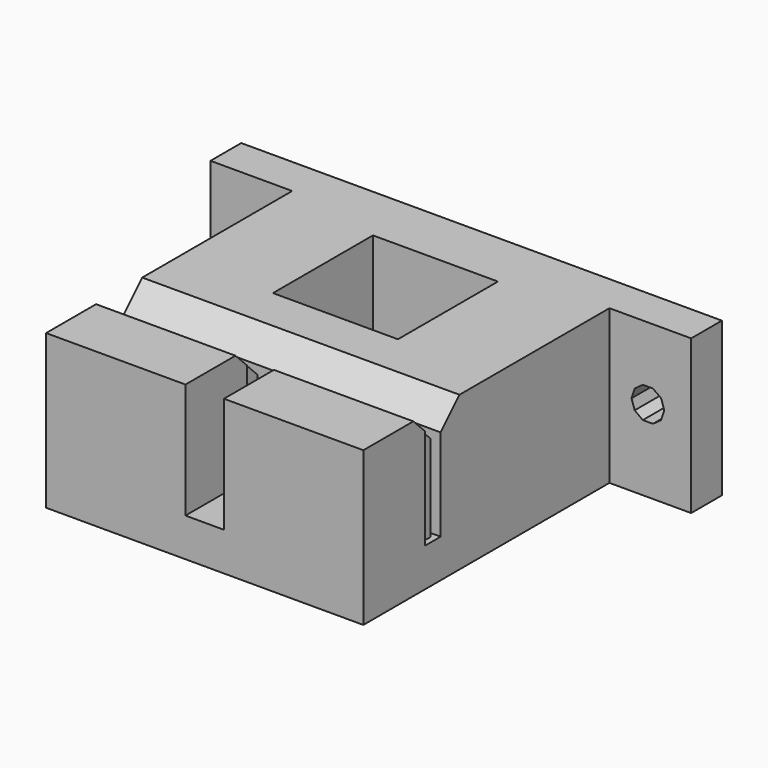
from build123d import *

# Parameters (mm, degrees)
PRISM001_DEPTH          = 50
PRISM_DEPTH             = 50
CUBE004_W               = 67
CUBE004_H               = 15
CUBE004_DEPTH           = 15
CUBE004_PLACEMENT_ANGLE = 45
CUBE006_W               = 1
CUBE006_H               = 1.7
CUBE006_DEPTH           = 15
CUBE007_W               = 1
CUBE007_H               = 1.7
CUBE007_DEPTH           = 15
CUBE008_W               = 1
CUBE008_H               = 1.7
CUBE008_DEPTH           = 15
CUBE009_W               = 1
CUBE009_H               = 1.7
CUBE009_DEPTH           = 15
CUBE010_W               = 1
CUBE010_H               = 1.7
CUBE010_DEPTH           = 15
CUBE011_W               = 1
CUBE011_H               = 1.7
CUBE011_DEPTH           = 15
CUBE012_W               = 1
CUBE012_H               = 1.7
CUBE012_DEPTH           = 15
CUBE013_W               = 1
CUBE013_H               = 1.7
CUBE013_DEPTH           = 15
CUBE014_W               = 1
CUBE014_H               = 1.7
CUBE014_DEPTH           = 15
CUBE015_W               = 1
CUBE015_H               = 1.7
CUBE015_DEPTH           = 15
CUBE016_W               = 1
CUBE016_H               = 1.7
CUBE016_DEPTH           = 15
CUBE017_W               = 1
CUBE017_H               = 1.7
CUBE017_DEPTH           = 15
CUBE018_W               = 1
CUBE018_H               = 1.7
CUBE018_DEPTH           = 15
CUBE019_W               = 1
CUBE019_H               = 1.7
CUBE019_DEPTH           = 15
CUBE020_W               = 1
CUBE020_H               = 1.7
CUBE020_DEPTH           = 15
CUBE021_W               = 1
CUBE021_H               = 1.7
CUBE021_DEPTH           = 15
CUBE022_W               = 1
CUBE022_H               = 1.7
CUBE022_DEPTH           = 15
CUBE023_W               = 1
CUBE023_H               = 1.7
CUBE023_DEPTH           = 15
CUBE024_W               = 1
CUBE024_H               = 1.7
CUBE024_DEPTH           = 15
CUBE025_W               = 1
CUBE025_H               = 1.7
CUBE025_DEPTH           = 15
CUBE026_W               = 1
CUBE026_H               = 1.7
CUBE026_DEPTH           = 15
CUBE027_W               = 1
CUBE027_H               = 1.7
CUBE027_DEPTH           = 15
CUBE028_W               = 1
CUBE028_H               = 1.7
CUBE028_DEPTH           = 15
CUBE005_W               = 1
CUBE005_H               = 1.7
CUBE005_DEPTH           = 15
CUBE029_W               = 4
CUBE029_H               = 11
CUBE029_DEPTH           = 15
CUBE030_W               = 13
CUBE030_H               = 13
CUBE030_DEPTH           = 20
CUBE003_W               = 67
CUBE003_H               = 0.55
CUBE003_DEPTH           = 15
CUBE001_W               = 33
CUBE001_H               = 25
CUBE001_DEPTH           = 16
CUBE002_W               = 50
CUBE002_H               = 4
CUBE002_DEPTH           = 16
CUBE_W                  = 33
CUBE_H                  = 15
CUBE_DEPTH              = 16


with BuildPart() as prism001:
    # prism001 → prism001 (new body)
    with BuildSketch(Plane(origin=(-45.5, 0.1, 7.5), x_dir=(1, 0, 0), z_dir=(0, 1, 0))):
        Polygon((1.7, 0), (1.375329, 0.999235), (0.525329, 1.616796), (-0.525329, 1.616796), (-1.375329, 0.999235), (-1.7, 0), (-1.375329, -0.999235), (-0.525329, -1.616796), (0.525329, -1.616796), (1.375329, -0.999235), align=None)
    extrude(amount=PRISM001_DEPTH)


with BuildPart() as group003:
    # prism → prism (new body)
    with BuildSketch(Plane(origin=(-4.5, 0.1, 7.5), x_dir=(1, 0, 0), z_dir=(0, 1, 0))):
        Polygon((1.7, 0), (1.375329, 0.999235), (0.525329, 1.616796), (-0.525329, 1.616796), (-1.375329, 0.999235), (-1.7, 0), (-1.375329, -0.999235), (-0.525329, -1.616796), (0.525329, -1.616796), (1.375329, -0.999235), align=None)
    extrude(amount=PRISM_DEPTH)

    # Group003: union prism001
    add(prism001.part)


with BuildPart() as cube004:
    # cube004 → cube004 (new body)
    with BuildSketch(Plane.XY):
        with Locations((33.5, 7.5)):
            Rectangle(CUBE004_W, CUBE004_H)
    extrude(amount=CUBE004_DEPTH)


with BuildPart() as cube004_1:
    # cube004 placement: moved
    add(cube004.part.moved(Location((-66, 9.5, 12))).rotate(Axis((-66, 9.5, 12), (1, 0, 0)), CUBE004_PLACEMENT_ANGLE))


with BuildPart() as cube006:
    # cube006 → cube006 (new body)
    with BuildSketch(Plane(origin=(-3.1, 8, 3), x_dir=(1, 0, 0), z_dir=(0, 0, 1))):
        with Locations((0.5, 0.85)):
            Rectangle(CUBE006_W, CUBE006_H)
    extrude(amount=CUBE006_DEPTH)


with BuildPart() as cube007:
    # cube007 → cube007 (new body)
    with BuildSketch(Plane(origin=(-5.1, 8, 3), x_dir=(1, 0, 0), z_dir=(0, 0, 1))):
        with Locations((0.5, 0.85)):
            Rectangle(CUBE007_W, CUBE007_H)
    extrude(amount=CUBE007_DEPTH)


with BuildPart() as cube008:
    # cube008 → cube008 (new body)
    with BuildSketch(Plane(origin=(-7.1, 8, 3), x_dir=(1, 0, 0), z_dir=(0, 0, 1))):
        with Locations((0.5, 0.85)):
            Rectangle(CUBE008_W, CUBE008_H)
    extrude(amount=CUBE008_DEPTH)


with BuildPart() as cube009:
    # cube009 → cube009 (new body)
    with BuildSketch(Plane(origin=(-9.1, 8, 3), x_dir=(1, 0, 0), z_dir=(0, 0, 1))):
        with Locations((0.5, 0.85)):
            Rectangle(CUBE009_W, CUBE009_H)
    extrude(amount=CUBE009_DEPTH)


with BuildPart() as cube010:
    # cube010 → cube010 (new body)
    with BuildSketch(Plane(origin=(-11.1, 8, 3), x_dir=(1, 0, 0), z_dir=(0, 0, 1))):
        with Locations((0.5, 0.85)):
            Rectangle(CUBE010_W, CUBE010_H)
    extrude(amount=CUBE010_DEPTH)


with BuildPart() as cube011:
    # cube011 → cube011 (new body)
    with BuildSketch(Plane(origin=(-13.1, 8, 3), x_dir=(1, 0, 0), z_dir=(0, 0, 1))):
        with Locations((0.5, 0.85)):
            Rectangle(CUBE011_W, CUBE011_H)
    extrude(amount=CUBE011_DEPTH)


with BuildPart() as cube012:
    # cube012 → cube012 (new body)
    with BuildSketch(Plane(origin=(-15.1, 8, 3), x_dir=(1, 0, 0), z_dir=(0, 0, 1))):
        with Locations((0.5, 0.85)):
            Rectangle(CUBE012_W, CUBE012_H)
    extrude(amount=CUBE012_DEPTH)


with BuildPart() as cube013:
    # cube013 → cube013 (new body)
    with BuildSketch(Plane(origin=(-17.1, 8, 3), x_dir=(1, 0, 0), z_dir=(0, 0, 1))):
        with Locations((0.5, 0.85)):
            Rectangle(CUBE013_W, CUBE013_H)
    extrude(amount=CUBE013_DEPTH)


with BuildPart() as cube014:
    # cube014 → cube014 (new body)
    with BuildSketch(Plane(origin=(-19.1, 8, 3), x_dir=(1, 0, 0), z_dir=(0, 0, 1))):
        with Locations((0.5, 0.85)):
            Rectangle(CUBE014_W, CUBE014_H)
    extrude(amount=CUBE014_DEPTH)


with BuildPart() as cube015:
    # cube015 → cube015 (new body)
    with BuildSketch(Plane(origin=(-21.1, 8, 3), x_dir=(1, 0, 0), z_dir=(0, 0, 1))):
        with Locations((0.5, 0.85)):
            Rectangle(CUBE015_W, CUBE015_H)
    extrude(amount=CUBE015_DEPTH)


with BuildPart() as cube016:
    # cube016 → cube016 (new body)
    with BuildSketch(Plane(origin=(-23.1, 8, 3), x_dir=(1, 0, 0), z_dir=(0, 0, 1))):
        with Locations((0.5, 0.85)):
            Rectangle(CUBE016_W, CUBE016_H)
    extrude(amount=CUBE016_DEPTH)


with BuildPart() as cube017:
    # cube017 → cube017 (new body)
    with BuildSketch(Plane(origin=(-25.1, 8, 3), x_dir=(1, 0, 0), z_dir=(0, 0, 1))):
        with Locations((0.5, 0.85)):
            Rectangle(CUBE017_W, CUBE017_H)
    extrude(amount=CUBE017_DEPTH)


with BuildPart() as cube018:
    # cube018 → cube018 (new body)
    with BuildSketch(Plane(origin=(-27.1, 8, 3), x_dir=(1, 0, 0), z_dir=(0, 0, 1))):
        with Locations((0.5, 0.85)):
            Rectangle(CUBE018_W, CUBE018_H)
    extrude(amount=CUBE018_DEPTH)


with BuildPart() as cube019:
    # cube019 → cube019 (new body)
    with BuildSketch(Plane(origin=(-29.1, 8, 3), x_dir=(1, 0, 0), z_dir=(0, 0, 1))):
        with Locations((0.5, 0.85)):
            Rectangle(CUBE019_W, CUBE019_H)
    extrude(amount=CUBE019_DEPTH)


with BuildPart() as cube020:
    # cube020 → cube020 (new body)
    with BuildSketch(Plane(origin=(-31.1, 8, 3), x_dir=(1, 0, 0), z_dir=(0, 0, 1))):
        with Locations((0.5, 0.85)):
            Rectangle(CUBE020_W, CUBE020_H)
    extrude(amount=CUBE020_DEPTH)


with BuildPart() as cube021:
    # cube021 → cube021 (new body)
    with BuildSketch(Plane(origin=(-33.1, 8, 3), x_dir=(1, 0, 0), z_dir=(0, 0, 1))):
        with Locations((0.5, 0.85)):
            Rectangle(CUBE021_W, CUBE021_H)
    extrude(amount=CUBE021_DEPTH)


with BuildPart() as cube022:
    # cube022 → cube022 (new body)
    with BuildSketch(Plane(origin=(-35.1, 8, 3), x_dir=(1, 0, 0), z_dir=(0, 0, 1))):
        with Locations((0.5, 0.85)):
            Rectangle(CUBE022_W, CUBE022_H)
    extrude(amount=CUBE022_DEPTH)


with BuildPart() as cube023:
    # cube023 → cube023 (new body)
    with BuildSketch(Plane(origin=(-37.1, 8, 3), x_dir=(1, 0, 0), z_dir=(0, 0, 1))):
        with Locations((0.5, 0.85)):
            Rectangle(CUBE023_W, CUBE023_H)
    extrude(amount=CUBE023_DEPTH)


with BuildPart() as cube024:
    # cube024 → cube024 (new body)
    with BuildSketch(Plane(origin=(-39.1, 8, 3), x_dir=(1, 0, 0), z_dir=(0, 0, 1))):
        with Locations((0.5, 0.85)):
            Rectangle(CUBE024_W, CUBE024_H)
    extrude(amount=CUBE024_DEPTH)


with BuildPart() as cube025:
    # cube025 → cube025 (new body)
    with BuildSketch(Plane(origin=(-41.1, 8, 3), x_dir=(1, 0, 0), z_dir=(0, 0, 1))):
        with Locations((0.5, 0.85)):
            Rectangle(CUBE025_W, CUBE025_H)
    extrude(amount=CUBE025_DEPTH)


with BuildPart() as cube026:
    # cube026 → cube026 (new body)
    with BuildSketch(Plane(origin=(-43.1, 8, 3), x_dir=(1, 0, 0), z_dir=(0, 0, 1))):
        with Locations((0.5, 0.85)):
            Rectangle(CUBE026_W, CUBE026_H)
    extrude(amount=CUBE026_DEPTH)


with BuildPart() as cube027:
    # cube027 → cube027 (new body)
    with BuildSketch(Plane(origin=(-45.1, 8, 3), x_dir=(1, 0, 0), z_dir=(0, 0, 1))):
        with Locations((0.5, 0.85)):
            Rectangle(CUBE027_W, CUBE027_H)
    extrude(amount=CUBE027_DEPTH)


with BuildPart() as cube028:
    # cube028 → cube028 (new body)
    with BuildSketch(Plane(origin=(-47.1, 8, 3), x_dir=(1, 0, 0), z_dir=(0, 0, 1))):
        with Locations((0.5, 0.85)):
            Rectangle(CUBE028_W, CUBE028_H)
    extrude(amount=CUBE028_DEPTH)


with BuildPart() as group001:
    # cube005 → cube005 (new body)
    with BuildSketch(Plane(origin=(-1.1, 8, 3), x_dir=(1, 0, 0), z_dir=(0, 0, 1))):
        with Locations((0.5, 0.85)):
            Rectangle(CUBE005_W, CUBE005_H)
    extrude(amount=CUBE005_DEPTH)

    # Group001: union cube006, cube007, cube008, cube009, cube010, cube011, cube012, cube013, cube014, cube015, cube016, cube017, cube018, cube019, cube020, cube021, cube022, cube023, cube024, cube025, cube026, cube027, cube028
    add(cube006.part)
    add(cube007.part)
    add(cube008.part)
    add(cube009.part)
    add(cube010.part)
    add(cube011.part)
    add(cube012.part)
    add(cube013.part)
    add(cube014.part)
    add(cube015.part)
    add(cube016.part)
    add(cube017.part)
    add(cube018.part)
    add(cube019.part)
    add(cube020.part)
    add(cube021.part)
    add(cube022.part)
    add(cube023.part)
    add(cube024.part)
    add(cube025.part)
    add(cube026.part)
    add(cube027.part)
    add(cube028.part)


with BuildPart() as cube029:
    # cube029 → cube029 (new body)
    with BuildSketch(Plane(origin=(-27, -1, 3), x_dir=(1, 0, 0), z_dir=(0, 0, 1))):
        with Locations((2, 5.5)):
            Rectangle(CUBE029_W, CUBE029_H)
    extrude(amount=CUBE029_DEPTH)


with BuildPart() as cube030:
    # cube030 → cube030 (new body)
    with BuildSketch(Plane(origin=(-31.5, 17, -2), x_dir=(1, 0, 0), z_dir=(0, 0, 1))):
        with Locations((6.5, 6.5)):
            Rectangle(CUBE030_W, CUBE030_H)
    extrude(amount=CUBE030_DEPTH)


with BuildPart() as union:
    # cube003 → cube003 (new body)
    with BuildSketch(Plane(origin=(-66, 9.5, 3), x_dir=(1, 0, 0), z_dir=(0, 0, 1))):
        with Locations((33.5, 0.275)):
            Rectangle(CUBE003_W, CUBE003_H)
    extrude(amount=CUBE003_DEPTH)

    # Group002: union cube004, Group001, cube029, cube030
    add(cube004_1.part)
    add(group001.part)
    add(cube029.part)
    add(cube030.part)

    # union: union Group003
    add(group003.part)


with BuildPart() as cube001:
    # cube001 → cube001 (new body)
    with BuildSketch(Plane(origin=(-41.5, 11, -1), x_dir=(1, 0, 0), z_dir=(0, 0, 1))):
        with Locations((16.5, 12.5)):
            Rectangle(CUBE001_W, CUBE001_H)
    extrude(amount=CUBE001_DEPTH)


with BuildPart() as cube002:
    # cube002 → cube002 (new body)
    with BuildSketch(Plane(origin=(-50, 32, -1), x_dir=(1, 0, 0), z_dir=(0, 0, 1))):
        with Locations((25, 2)):
            Rectangle(CUBE002_W, CUBE002_H)
    extrude(amount=CUBE002_DEPTH)


with BuildPart() as difference:
    # cube → cube (new body)
    with BuildSketch(Plane(origin=(-41.5, 0, -1), x_dir=(1, 0, 0), z_dir=(0, 0, 1))):
        with Locations((16.5, 7.5)):
            Rectangle(CUBE_W, CUBE_H)
    extrude(amount=CUBE_DEPTH)

    # Group: union cube001, cube002
    add(cube001.part)
    add(cube002.part)

    # difference: cut union
    add(union.part, mode=Mode.SUBTRACT)


solid = difference.part
